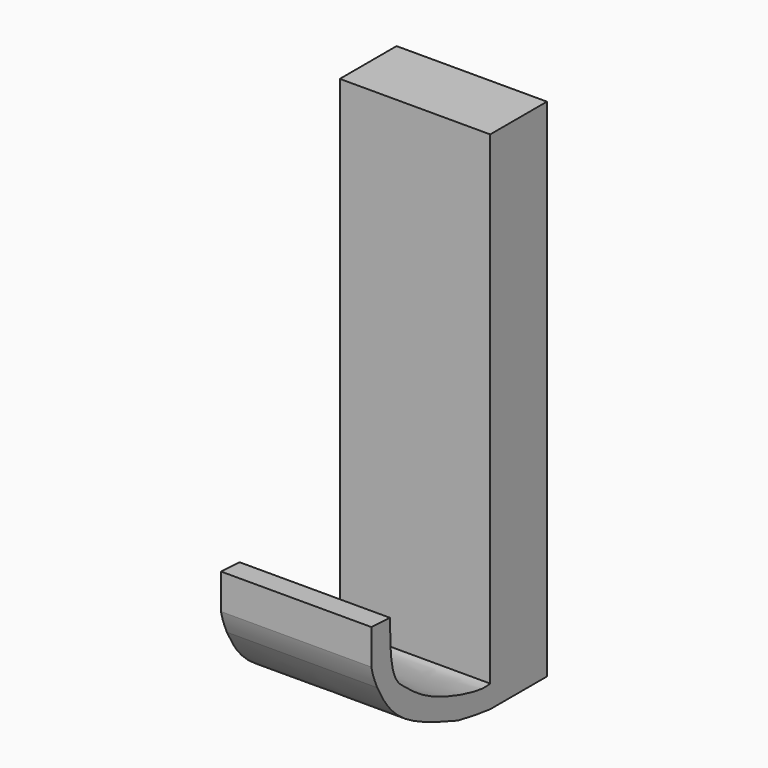
from build123d import *

# Parameters (mm, degrees)
F1_DEPTH = 25.4


with BuildPart() as f1:
    # F0 (on Right) → F1 (new body)
    with BuildSketch(Plane.YZ):
        with BuildLine():
            Line((11.9830649346, 56.2282279134), (0, 56.2282279134))
            Line((0, 56.2282279134), (0, 0))
            Line((0, 0), (0, -25.4296530038))
            add(Edge.make_bspline(
                [(-18.8555812699, -17.934905612), (-16.9106029389, -19.5645184381), (-12.7770122998, -22.8729562399), (-2.3803292848, -25.7366404928), (-0.5698041588, -25.5014664805), (0, -25.4296530038)],
                knots=[0, 0, 0, 0, 0.3780119804, 0.8050580614, 1, 1, 1, 1], degree=3))
            add(Edge.make_bspline(
                [(-21.142558413, -7.0593257981), (-21.1630354076, -9.5336929124), (-20.9731282695, -15.5207622715), (-19.6166192611, -17.2266989399), (-18.8555812699, -17.934905612)],
                knots=[0.366556887, 0.366556887, 0.366556887, 0.366556887, 0.6393886, 1, 1, 1, 1], degree=3))
            Line((-21.142558413, -7.0593257981), (-25.0921566039, -6.8269963376))
            Line((-25.0921566039, -6.8269963376), (-25.0921566039, -10.7270432636))
            add(Edge.make_bspline(
                [(-25.0921566039, -10.7270432636), (-25.0921566039, -11.4100286737), (-25.0921566039, -12.0930140838), (-25.0921566039, -12.7759994939)],
                knots=[0, 0, 0, 0, 2.0489562303, 2.0489562303, 2.0489562303, 2.0489562303], degree=3))
            add(Edge.make_bspline(
                [(-25.0921566039, -12.7759994939), (-24.973364664, -13.2851188409), (-24.7576397464, -14.2096742373), (-24.1579971359, -15.6511864276), (-23.8430076643, -16.3542931801)],
                knots=[0, 0, 0, 0, 0.1083588108, 0.1967784644, 0.1967784644, 0.1967784644, 0.1967784644], degree=3))
            add(Edge.make_bspline(
                [(-23.8430076643, -16.3542931801), (-23.1824210352, -17.6023346541), (-21.7417949157, -20.3122029051), (-17.1289494394, -24.5170313413), (-10.6039371265, -26.829365645), (-6.8319985466, -28.1603759268)],
                knots=[0, 0, 0, 0, 0.2646182234, 0.5750030745, 1, 1, 1, 1], degree=3))
            add(Edge.make_bspline(
                [(-6.8319985466, -28.1603759268), (-4.1586930455, -28.7347082308), (-2.0793465227, -28.9920987691), (0, -29.2494893074)],
                knots=[0.7897364765, 0.7897364765, 0.7897364765, 0.7897364765, 1, 1, 1, 1], degree=3))
            Line((0, -29.2494893074), (12.0026087388, -29.2494893074))
            Line((12.0026087388, -29.2494893074), (11.9830649346, -28.7593547255))
            Line((11.9830649346, -28.7593547255), (11.9830649346, 56.2282279134))
        make_face()
    extrude(amount=F1_DEPTH)


solid = f1.part
